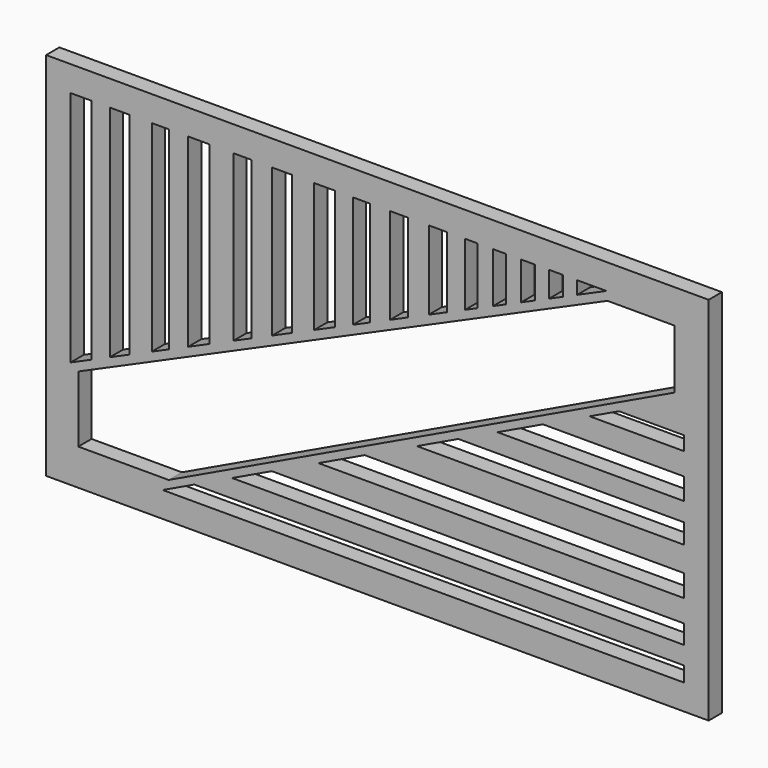
from build123d import *

# Parameters (mm, degrees)
F0_W     = 199.582144
F0_H     = 111.60066
F1_DEPTH = 5


with BuildPart() as f1:
    # F0 (on Front) → F1 (new body)
    with BuildSketch(Plane.XZ):
        Rectangle(F0_W, F0_H)
        Polygon((92.410073, -48.124097), (-64.657532, -48.124097), (-55.142638, -43.583292), (92.410073, -43.583292), align=None, mode=Mode.SUBTRACT)
        Polygon((92.410073, -32.43614), (92.410073, -38.146261), (-43.749776, -38.146261), (-31.784674, -32.43614), align=None, mode=Mode.SUBTRACT)
        Polygon((92.410073, -19.095723), (92.410073, -25.732951), (-17.73868, -25.732951), (-3.830899, -19.095723), align=None, mode=Mode.SUBTRACT)
        Polygon((92.410073, -5.623395), (92.410073, -11.581782), (11.91396, -11.581782), (24.399283, -5.623395), align=None, mode=Mode.SUBTRACT)
        Polygon((-92.410073, -23.323948), (-92.410073, 48.124097), (-86.056881, 48.124097), (-86.056881, -20.511512), align=None, mode=Mode.SUBTRACT)
        Polygon((-80.595024, -18.093653), (-80.595024, 48.124097), (-74.636638, 48.124097), (-74.636638, -15.45599), align=None, mode=Mode.SUBTRACT)
        Polygon((-67.933455, -12.488619), (-67.933455, 48.124097), (-62.719867, 48.124097), (-62.719867, -10.180664), align=None, mode=Mode.SUBTRACT)
        Polygon((-57.009745, -7.652903), (-57.009745, 48.124097), (-50.554827, 48.124097), (-50.554827, -4.795435), align=None, mode=Mode.SUBTRACT)
        Polygon((-90.079022, -44.876456), (-90.079022, -24.949197), (69.316997, 45.612357), (89.457676, 45.612357), (89.457676, 27.819769), (-62.871436, -44.876456), align=None, mode=Mode.SUBTRACT)
        Polygon((-43.355107, -1.608257), (-43.355107, 48.124097), (-37.893251, 48.124097), (-37.893251, 0.809602), align=None, mode=Mode.SUBTRACT)
        Polygon((-31.6866, 3.557166), (-31.6866, 48.124097), (-25.728211, 48.124097), (-25.728211, 6.194831), align=None, mode=Mode.SUBTRACT)
        Polygon((-19.025026, 9.162202), (-19.025026, 48.124097), (-12.818373, 48.124097), (-12.818373, 11.909768), align=None, mode=Mode.SUBTRACT)
        Polygon((-7.356516, 14.327627), (-7.356516, 48.124097), (-2.142929, 48.124097), (-2.142929, 16.635582), align=None, mode=Mode.SUBTRACT)
        Polygon((92.410073, 6.541645), (92.410073, 0), (36.182657, 0), (49.89015, 6.541645), align=None, mode=Mode.SUBTRACT)
        Polygon((92.410073, 17.465357), (92.410073, 13.244831), (63.936138, 13.244831), (72.779912, 17.465357), align=None, mode=Mode.SUBTRACT)
        Polygon((3.81546, 19.273246), (3.81546, 48.124097), (9.277313, 48.124097), (9.277313, 21.691103), align=None, mode=Mode.SUBTRACT)
        Polygon((15.483965, 24.438669), (15.483965, 48.124097), (20.945825, 48.124097), (20.945825, 26.856529), align=None, mode=Mode.SUBTRACT)
        Polygon((26.407678, 29.274386), (26.407678, 48.124097), (30.13167, 48.124097), (30.13167, 30.922926), align=None, mode=Mode.SUBTRACT)
        Polygon((34.848724, 33.011075), (34.848724, 48.124097), (38.820986, 48.124097), (38.820986, 34.769519), align=None, mode=Mode.SUBTRACT)
        Polygon((43.289777, 36.747767), (43.289777, 48.124097), (47.5103, 48.124097), (47.5103, 38.616112), align=None, mode=Mode.SUBTRACT)
        Polygon((51.730823, 40.484456), (51.730823, 48.124097), (55.951346, 48.124097), (55.951346, 42.3528), align=None, mode=Mode.SUBTRACT)
        Polygon((60.171869, 44.221145), (60.171869, 48.124097), (68.988499, 48.124097), align=None, mode=Mode.SUBTRACT)
    extrude(amount=F1_DEPTH)


solid = f1.part
